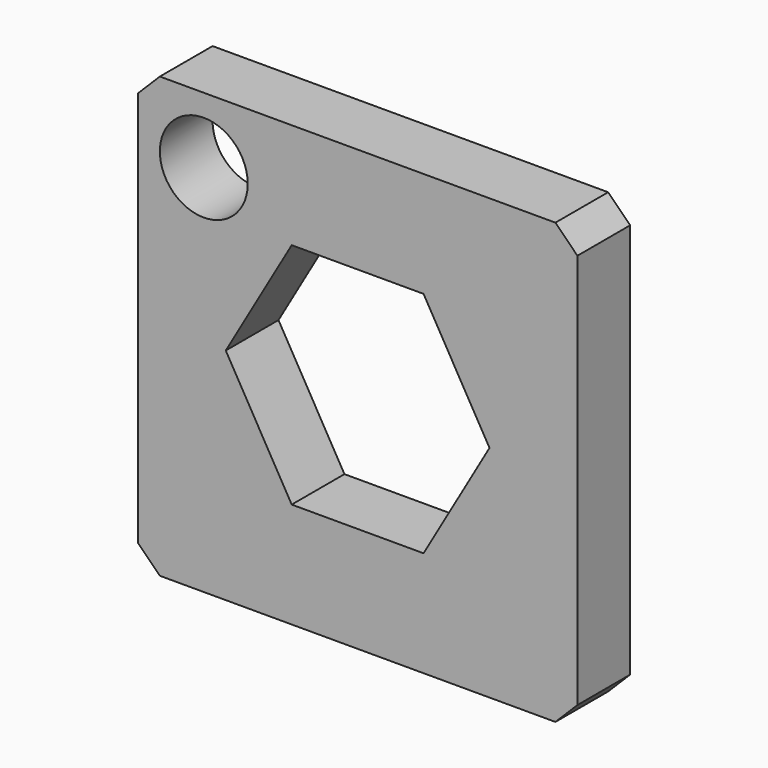
from build123d import *

# Parameters (mm, degrees)
F0_W     = 100
F0_H     = 100
F1_DEPTH = 15
F2_R     = 10
F3_DEPTH = 15.001
F4_SIZE  = 5


with BuildPart() as f1:
    # F0 (on Front) → F1 (new body)
    with BuildSketch(Plane.XZ):
        Rectangle(F0_W, F0_H)
        Polygon((15, 25.980762), (30, 0), (15, -25.980762), (-15, -25.980762), (-30, 0), (-15, 25.980762), align=None, mode=Mode.SUBTRACT)
    extrude(amount=F1_DEPTH)

    # F2 (on face) → F3 (cut, through all)
    with BuildSketch(Plane.XZ.offset(15)):
        with Locations((-35, 35)):
            Circle(F2_R)
    extrude(amount=-F3_DEPTH, mode=Mode.SUBTRACT)

    # F4
    f4_edges = [f1.edges().sort_by_distance(p)[0] for p in [
        (50, -7.5, 50),
        (-50, -7.5, 50),
        (50, -7.5, -50),
        (-50, -7.5, -50),
    ]]
    chamfer(f4_edges, length=F4_SIZE)


solid = f1.part
